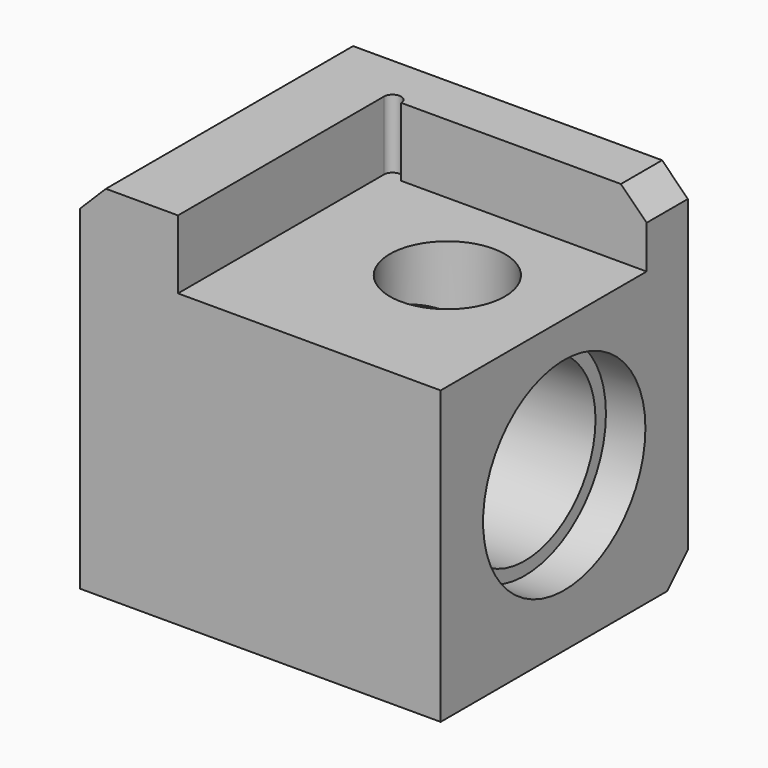
from build123d import *

# Parameters (mm, degrees)
F0_W      = 10.5
F0_H      = 10.5
F1_DEPTH  = 9
F2_R      = 3.0762
F3_DEPTH  = 5.135
F4_R      = 2.575
F5_DEPTH  = 25.4
F7_DEPTH  = 2
F8_R      = 1.675
F9_DEPTH  = 3
F10_SIZE  = 0.75
F11_R     = 0.625
F12_DEPTH = 4.5
F13_R     = 2.955
F14_DEPTH = 1.15


with BuildPart() as f1:
    # F0 (on Front) → F1 (new body)
    with BuildSketch(Plane.XZ):
        with Locations((5.25, 5.25)):
            Rectangle(F0_W, F0_H)
    extrude(amount=F1_DEPTH)

    # F2 (on face) → F3 (cut)
    with BuildSketch(Plane(origin=(0, 0, 0), x_dir=(0, -1, 0), z_dir=(-1, 0, 0))):
        with Locations((4.5, 4.5)):
            Circle(F2_R)
    extrude(amount=-F3_DEPTH, mode=Mode.SUBTRACT)

    # F4 (on face) → F5 (cut)
    with BuildSketch(Plane.YZ.offset(10.5)):
        with Locations((-4.5, 4.5)):
            Circle(F4_R)
    extrude(amount=-F5_DEPTH, mode=Mode.SUBTRACT)

    # F6 (on face) → F7 (cut)
    with BuildSketch(Plane.XY.offset(10.5)):
        with BuildLine():
            Line((2.85, -9), (10.5, -9))
            Line((10.5, -9), (10.5, -1.5))
            Line((10.5, -1.5), (3.35, -1.5))
            ThreePointArc((3.35, -1.5), (3.1, -1.75), (2.85, -1.5))
            Line((2.85, -1.5), (2.85, -9))
        make_face()
        with BuildLine():
            ThreePointArc((3.35, -1.5), (3.1, -1.25), (2.85, -1.5))
            Line((2.85, -1.5), (3.35, -1.5))
        make_face()
        with BuildLine():
            Line((3.35, -1.5), (2.85, -1.5))
            ThreePointArc((2.85, -1.5), (3.1, -1.75), (3.35, -1.5))
        make_face()
    extrude(amount=-F7_DEPTH, mode=Mode.SUBTRACT)

    # F8 (on face) → F9 (cut)
    with BuildSketch(Plane.XY.offset(8.5)):
        with Locations((7.075, -4.475)):
            Circle(F8_R)
    extrude(amount=-F9_DEPTH, mode=Mode.SUBTRACT)

    # F10
    f10_edges = [f1.edges().sort_by_distance(p)[0] for p in [
        (0, -4.5, 10.5),
        (5.25, 0, 0),
        (10.5, -0.75, 10.5),
    ]]
    chamfer(f10_edges, length=F10_SIZE)

    # F11 (on face) → F12 (cut)
    with BuildSketch(Plane(origin=(0, 0, 0), x_dir=(-1, 0, 0), z_dir=(0, 1, 0))):
        with Locations((-1.625, 8.875)):
            Circle(F11_R)
    extrude(amount=-F12_DEPTH, mode=Mode.SUBTRACT)

    # F13 (on face) → F14 (cut)
    with BuildSketch(Plane.YZ.offset(10.5)):
        with Locations((-4.5, 4.5)):
            Circle(F13_R)
    extrude(amount=-F14_DEPTH, mode=Mode.SUBTRACT)


solid = f1.part
